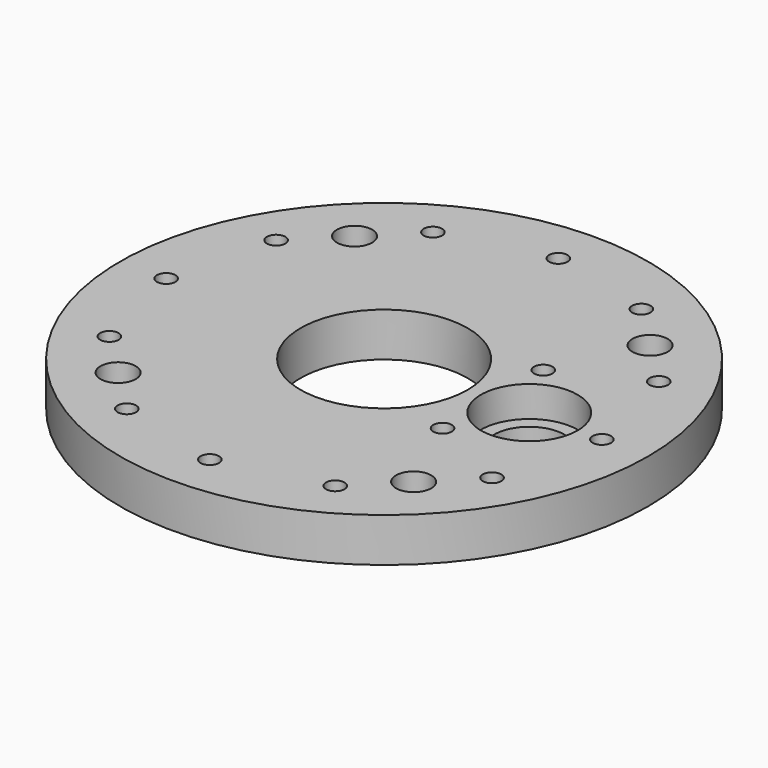
from build123d import *

# Parameters (mm, degrees)
SKETCH_R     = 60
SKETCH_R_2   = 2.1
SKETCH_R_3   = 19
SKETCH_R_4   = 8
SKETCH_R_5   = 4
PAD_DEPTH    = 10
SKETCH001_R  = 11
POCKET_DEPTH = 7
CHAMFER_SIZE = 2.2


with BuildPart() as part:
    # Sketch → Pad (new body)
    with BuildSketch(Plane.XY):
        Circle(SKETCH_R)
        with Locations((24.74, 14.30674)):
            Circle(SKETCH_R_2, mode=Mode.SUBTRACT)
        with Locations((24.74, -14.30674)):
            Circle(SKETCH_R_2, mode=Mode.SUBTRACT)
        Circle(SKETCH_R_3, mode=Mode.SUBTRACT)
        with Locations((33, 0)):
            Circle(SKETCH_R_4, mode=Mode.SUBTRACT)
        with Locations((49.52, 0)):
            Circle(SKETCH_R_2, mode=Mode.SUBTRACT)
        with Locations((-33.587572, 33.587572)):
            Circle(SKETCH_R_5, mode=Mode.SUBTRACT)
        with Locations((-33.587572, -33.587572)):
            Circle(SKETCH_R_5, mode=Mode.SUBTRACT)
        with Locations((33.587572, -33.587572)):
            Circle(SKETCH_R_5, mode=Mode.SUBTRACT)
        with Locations((33.587572, 33.587572)):
            Circle(SKETCH_R_5, mode=Mode.SUBTRACT)
        with Locations((-49.52, 0)):
            Circle(SKETCH_R_2, mode=Mode.SUBTRACT)
        with Locations((0, 49.52)):
            Circle(SKETCH_R_2, mode=Mode.SUBTRACT)
        with Locations((0, -49.52)):
            Circle(SKETCH_R_2, mode=Mode.SUBTRACT)
        with Locations((-43.487067, 23.688077)):
            Circle(SKETCH_R_2, mode=Mode.SUBTRACT)
        with Locations((-23.688077, 43.487067)):
            Circle(SKETCH_R_2, mode=Mode.SUBTRACT)
        with Locations((23.688077, -43.487067)):
            Circle(SKETCH_R_2, mode=Mode.SUBTRACT)
        with Locations((43.487067, -23.688077)):
            Circle(SKETCH_R_2, mode=Mode.SUBTRACT)
        with Locations((23.688077, 43.487067)):
            Circle(SKETCH_R_2, mode=Mode.SUBTRACT)
        with Locations((43.487067, 23.688077)):
            Circle(SKETCH_R_2, mode=Mode.SUBTRACT)
        with Locations((-43.487067, -23.688077)):
            Circle(SKETCH_R_2, mode=Mode.SUBTRACT)
        with Locations((-23.688077, -43.487067)):
            Circle(SKETCH_R_2, mode=Mode.SUBTRACT)
    extrude(amount=PAD_DEPTH)

    # Sketch001 (on Face23 of Pad) → Pocket (cut)
    with BuildSketch(Plane.XY.offset(10)):
        with Locations((33, 0)):
            Circle(SKETCH001_R)
    extrude(amount=-POCKET_DEPTH, mode=Mode.SUBTRACT)

    # Chamfer
    chamfer_edges = [part.edges().sort_by_distance(p)[0] for p in [
        (22.64, -14.30674, 0),
        (22.64, 14.30674, 0),
    ]]
    chamfer(chamfer_edges, length=CHAMFER_SIZE)


solid = part.part
